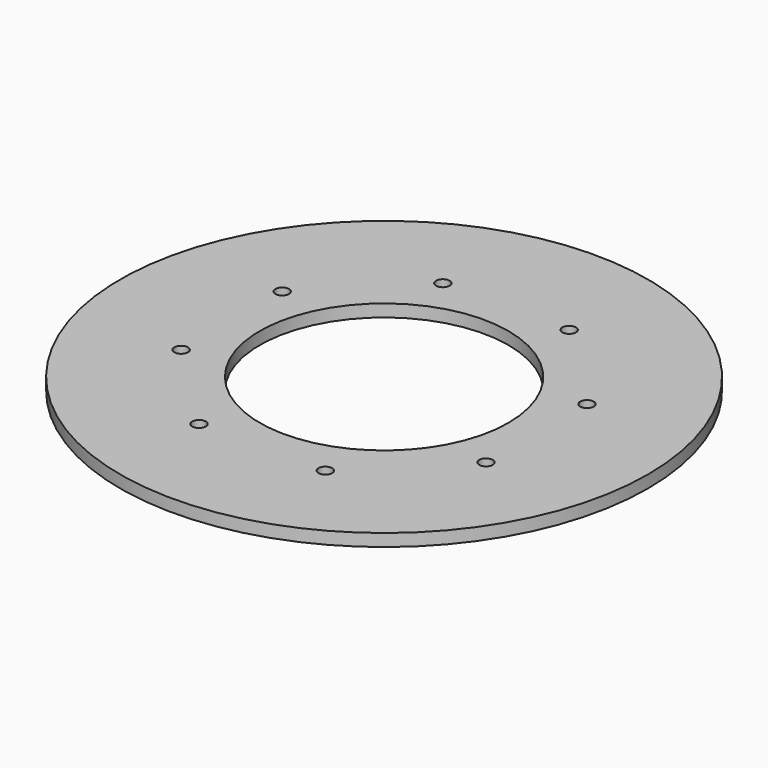
from build123d import *

# Parameters (mm, degrees)
SKETCH_R   = 203.2
SKETCH_R_2 = 95.72714
SKETCH_R_3 = 5.25
PAD_DEPTH  = 9.525


with BuildPart() as part:
    # Sketch → Pad (new body)
    with BuildSketch(Plane.XY):
        Circle(SKETCH_R)
        Circle(SKETCH_R_2, mode=Mode.SUBTRACT)
        with Locations((-117.332701, 48.600796)):
            Circle(SKETCH_R_3, mode=Mode.SUBTRACT)
        with Locations((-117.332701, -48.600796)):
            Circle(SKETCH_R_3, mode=Mode.SUBTRACT)
        with Locations((-48.600796, -117.332701)):
            Circle(SKETCH_R_3, mode=Mode.SUBTRACT)
        with Locations((-48.600796, 117.332701)):
            Circle(SKETCH_R_3, mode=Mode.SUBTRACT)
        with Locations((48.600796, 117.332701)):
            Circle(SKETCH_R_3, mode=Mode.SUBTRACT)
        with Locations((117.332701, 48.600796)):
            Circle(SKETCH_R_3, mode=Mode.SUBTRACT)
        with Locations((48.600796, -117.332701)):
            Circle(SKETCH_R_3, mode=Mode.SUBTRACT)
        with Locations((117.332701, -48.600796)):
            Circle(SKETCH_R_3, mode=Mode.SUBTRACT)
    extrude(amount=PAD_DEPTH)


solid = part.part
